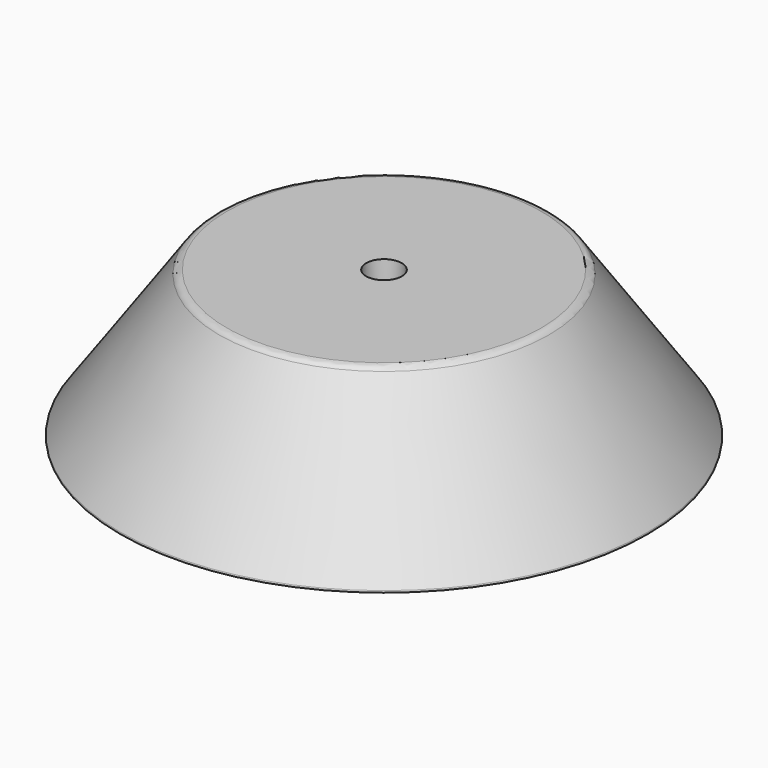
from build123d import *

# Parameters (mm, degrees)
F2_R = 1.5
F3_R = 0.25


with BuildPart() as f1:
    # F0 (on Front) → F1 (revolve)
    with BuildSketch(Plane.XZ):
        with BuildLine():
            Line((27.017928, 12), (2.9718, 12))
            Line((2.9718, 12), (2.6416, 3.3132))
            Line((2.6416, 3.3132), (0, 3.3132))
            Line((0, 3.3132), (0, 0))
            add(Edge.make_bspline(
                [(43.225221, -12.574561), (27.26946, 0), (12.901129, 0), (0, 0)],
                knots=[0, 0, 0, 0, 45.017101, 45.017101, 45.017101, 45.017101], degree=3))
            Line((43.225221, -12.574561), (44.225221, -12.574561))
            Line((44.225221, -12.574561), (27.017928, 12))
        make_face()
    revolve(axis=Axis((0, 0, -5.435105), (0, 0, -1)))

    # F2
    f2_edges = [f1.edges().sort_by_distance(p)[0] for p in [
        (-27.017928, 0, 12),
    ]]
    fillet(f2_edges, radius=F2_R)

    # F3
    f3_edges = [f1.edges().sort_by_distance(p)[0] for p in [
        (-44.225221, 0, -12.574561),
    ]]
    fillet(f3_edges, radius=F3_R)


solid = f1.part
